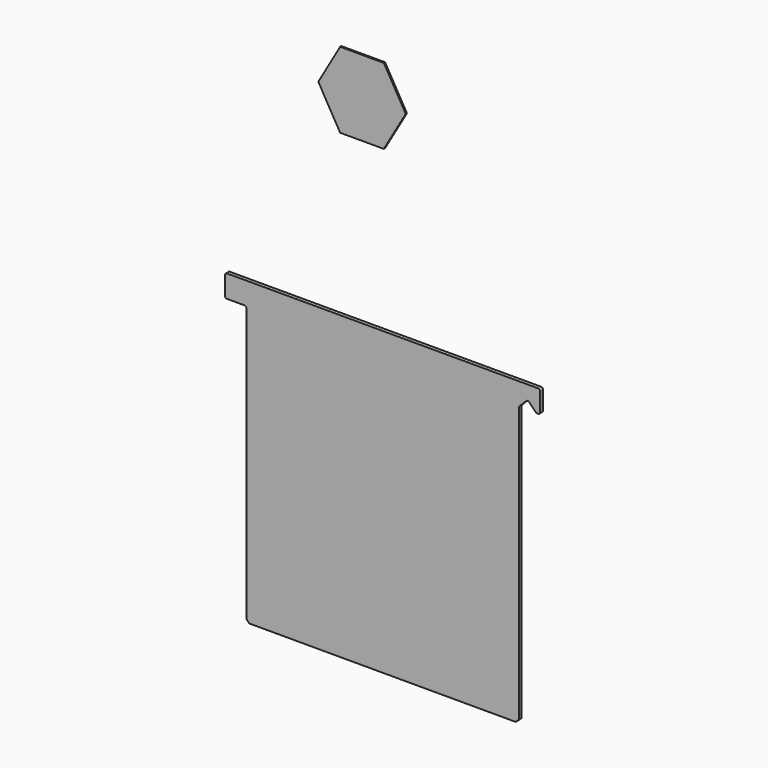
from build123d import *

# Parameters (mm, degrees)
F1_DEPTH = 6
F3_DEPTH = 1.25
F4_SIZE  = 5
F5_R     = 3
F6_R     = 3
F7_R     = 3
F8_R     = 3
F9_R     = 3
F10_R    = 3
F11_R    = 3
F12_R    = 3


with BuildPart() as f1:
    # F0 (on Front) → F1 (new body)
    with BuildSketch(Plane.XZ):
        Polygon((231.364989, 228.2864), (-288.635011, 228.2864), (-288.635011, 191.2864), (-253.635011, 191.2864), (-253.635011, -268.7136), (196.364989, -268.7136), (196.364989, 191.2864), (211.182013, 205.857411), (225.511095, 191.2864), (231.364989, 191.2864), align=None)
    extrude(amount=F1_DEPTH)

    # F4
    f4_edges = [f1.edges().sort_by_distance(p)[0] for p in [
        (196.364989, -3, -268.7136),
        (-253.635011, -3, -268.7136),
    ]]
    chamfer(f4_edges, length=F4_SIZE)

    # F5
    f5_edges = [f1.edges().sort_by_distance(p)[0] for p in [
        (-288.635011, -3, 191.2864),
    ]]
    fillet(f5_edges, radius=F5_R)

    # F6
    f6_edges = [f1.edges().sort_by_distance(p)[0] for p in [
        (-288.635011, -3, 228.2864),
    ]]
    fillet(f6_edges, radius=F6_R)

    # F7
    f7_edges = [f1.edges().sort_by_distance(p)[0] for p in [
        (231.364989, -3, 228.2864),
    ]]
    fillet(f7_edges, radius=F7_R)

    # F8
    f8_edges = [f1.edges().sort_by_distance(p)[0] for p in [
        (196.364989, -3, 191.2864),
    ]]
    fillet(f8_edges, radius=F8_R)

    # F9
    f9_edges = [f1.edges().sort_by_distance(p)[0] for p in [
        (231.364989, -3, 191.2864),
    ]]
    fillet(f9_edges, radius=F9_R)

    # F10
    f10_edges = [f1.edges().sort_by_distance(p)[0] for p in [
        (225.511095, -3, 191.2864),
    ]]
    fillet(f10_edges, radius=F10_R)

    # F11
    f11_edges = [f1.edges().sort_by_distance(p)[0] for p in [
        (211.182013, -3, 205.857411),
    ]]
    fillet(f11_edges, radius=F11_R)

    # F12
    f12_edges = [f1.edges().sort_by_distance(p)[0] for p in [
        (-253.635011, -3, 191.2864),
    ]]
    fillet(f12_edges, radius=F12_R)


with BuildPart() as f3:
    # F2 (on Front) → F3 (new body, symmetric)
    with BuildSketch(Plane.XZ):
        Polygon((-102.443321, 490.401806), (-30.263321, 490.401806), (5.826679, 552.91152), (-30.263321, 615.421234), (-102.443321, 615.421234), (-138.533321, 552.91152), align=None)
    extrude(amount=F3_DEPTH, both=True)


solid = Compound([f1.part, f3.part])
